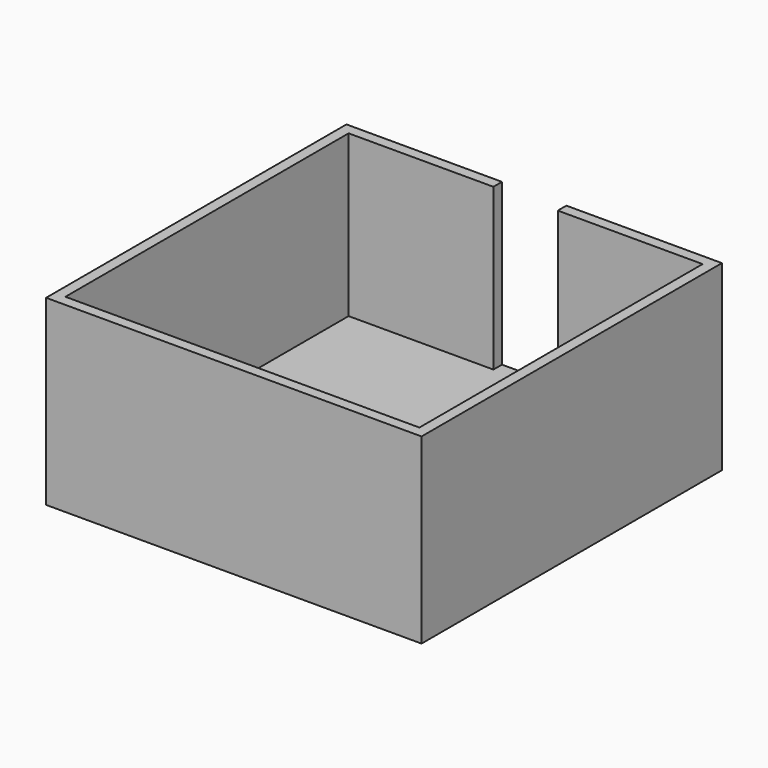
from build123d import *

# Parameters (mm, degrees)
F0_W          = 41.91
F0_H          = 41.91
F1_DEPTH      = 2.54
F2_W          = 44.45
F2_H          = 44.45
F3_DEPTH      = 2.54
F3_DEPTH_BACK = 19.05
F5_W          = 7.62
F5_H          = 1.27
F6_DEPTH      = 19.05


with BuildPart() as f1:
    # F0 (on Top) → F1 (new body)
    with BuildSketch(Plane.XY):
        with Locations((20.955, 20.955)):
            Rectangle(F0_W, F0_H)
    extrude(amount=F1_DEPTH)

    # F2 (on face) → F3 (join, two sides)
    with BuildSketch(Plane.XY.offset(2.54)) as f3_sk:
        with Locations((20.955, 20.955)):
            Rectangle(F2_W, F2_H)
        Polygon((0, 0), (0, 41.91), (20.955, 41.91), (41.91, 41.91), (41.91, 0), align=None, mode=Mode.SUBTRACT)
    extrude(amount=-F3_DEPTH)
    extrude(f3_sk.sketch, amount=F3_DEPTH_BACK)


with BuildPart() as f4_1:
    # F4: copy of F1
    add(f1.part)


with BuildPart() as f6_tool:
    # F5 (on face) → F6 (new body)
    with BuildSketch(Plane.XY.offset(21.59)):
        with Locations((20.955, 42.545)):
            Rectangle(F5_W, F5_H)
    extrude(amount=-F6_DEPTH)


with BuildPart() as f1_1:
    add(f1.part)

    # F6: cut by f6_tool
    add(f6_tool.part, mode=Mode.SUBTRACT)


with BuildPart() as f4_1_1:
    add(f4_1.part)

    # F6: cut by f6_tool
    add(f6_tool.part, mode=Mode.SUBTRACT)


solid = f1_1.part
